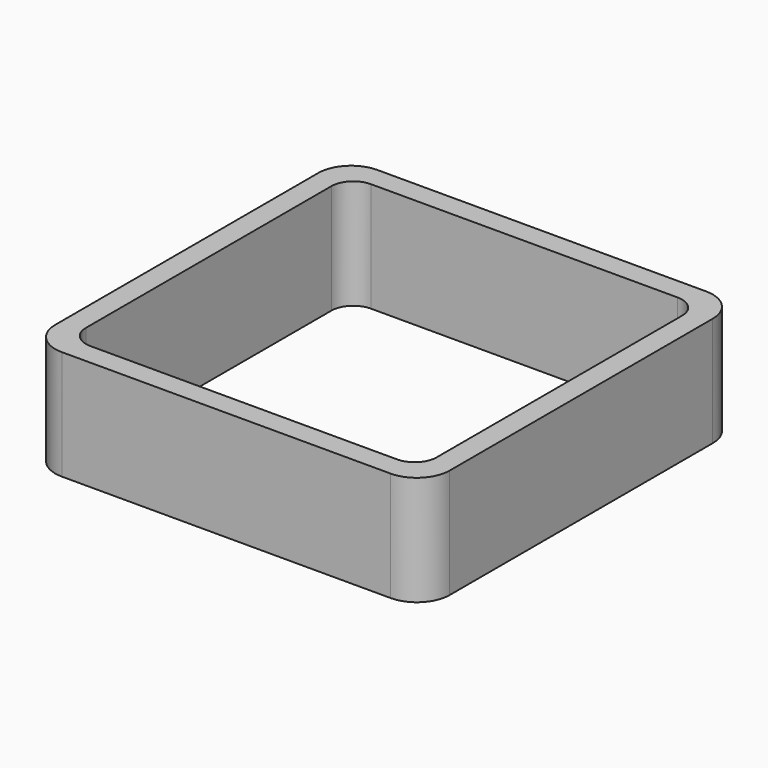
from build123d import *

# Parameters (mm, degrees)
EXTRUDE_DEPTH = 50


with BuildPart() as part:
    # Sketch → Extrude (new body)
    with BuildSketch(Plane.XY):
        with BuildLine():
            Line((-75, 90), (75, 90))
            ThreePointArc((90, 75), (85.606602, 85.606602), (75, 90))
            Line((90, 75), (90, -75))
            ThreePointArc((75, -90), (85.606602, -85.606602), (90, -75))
            Line((75, -90), (-75, -90))
            ThreePointArc((-90, -75), (-85.606602, -85.606602), (-75, -90))
            Line((-90, -75), (-90, 75))
            ThreePointArc((-75, 90), (-85.606602, 85.606602), (-90, 75))
        make_face()
        with BuildLine():
            Line((-70, 80), (70, 80))
            ThreePointArc((80, 70), (77.071068, 77.071068), (70, 80))
            Line((80, 70), (80, -70))
            ThreePointArc((70, -80), (77.071068, -77.071068), (80, -70))
            Line((70, -80), (-70, -80))
            ThreePointArc((-80, -70), (-77.071068, -77.071068), (-70, -80))
            Line((-80, -70), (-80, 70))
            ThreePointArc((-70, 80), (-77.071068, 77.071068), (-80, 70))
        make_face(mode=Mode.SUBTRACT)
    extrude(amount=EXTRUDE_DEPTH)


solid = part.part
